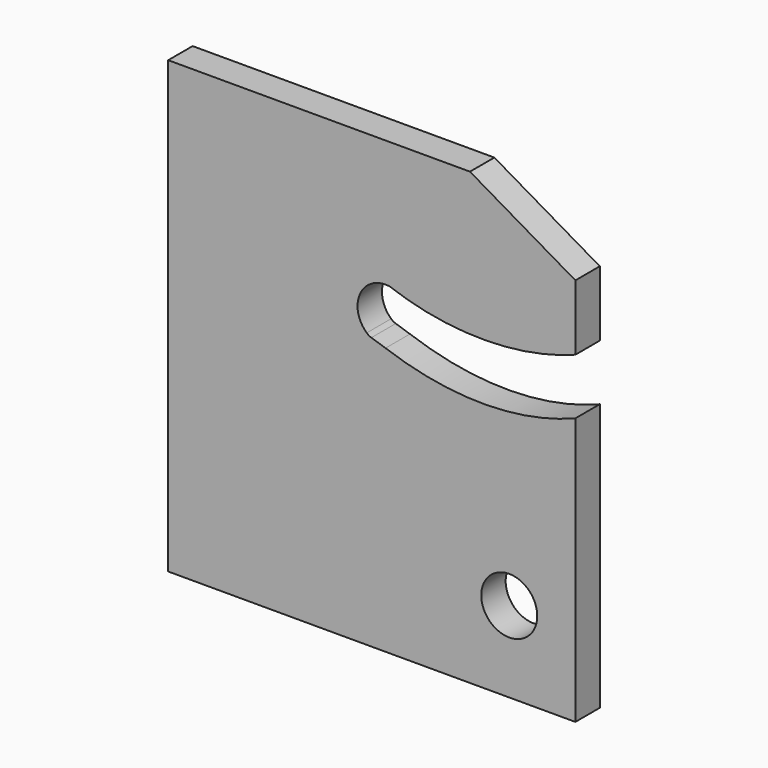
from build123d import *

# Parameters (mm, degrees)
F0_R     = 11
F1_DEPTH = 12


with BuildPart() as f1:
    # F0 (on Front) → F1 (new body)
    with BuildSketch(Plane.XZ):
        with BuildLine():
            Line((25.981579, 78.608206), (-15.442509, 102.743387))
            Line((-15.442509, 102.743387), (-134.018421, 102.743387))
            Line((-134.018421, 102.743387), (-134.018421, -74.145091))
            Line((-134.018421, -74.145091), (25.981579, -74.145091))
            Line((25.981579, -74.145091), (25.981579, 30.882375))
            add(Edge.make_bspline(
                [(-48.616274, 30.909721), (-26.945135, 23.237184), (0, 20.642917), (25.981579, 30.882375)],
                knots=[0, 0, 0, 0, 74.597858, 74.597858, 74.597858, 74.597858], degree=3))
            Line((-48.616274, 30.909721), (-54.192658, 32.713946))
            ThreePointArc((-54.192658, 32.713946), (-55.161698, 33.145772), (-56.017817, 33.772328))
            ThreePointArc((-56.017817, 33.772328), (-58.570506, 46.590881), (-47.069505, 52.800428))
            add(Edge.make_bspline(
                [(-47.069505, 52.800428), (-26.67203, 45.323465), (0.517313, 43.181155), (25.981579, 52.882375)],
                knots=[1.854694, 1.854694, 1.854694, 1.854694, 74.59953, 74.59953, 74.59953, 74.59953], degree=3))
            Line((25.981579, 52.882375), (25.981579, 78.608206))
        make_face()
        with Locations((0, -42.380005)):
            Circle(F0_R, mode=Mode.SUBTRACT)
    extrude(amount=F1_DEPTH)


solid = f1.part
